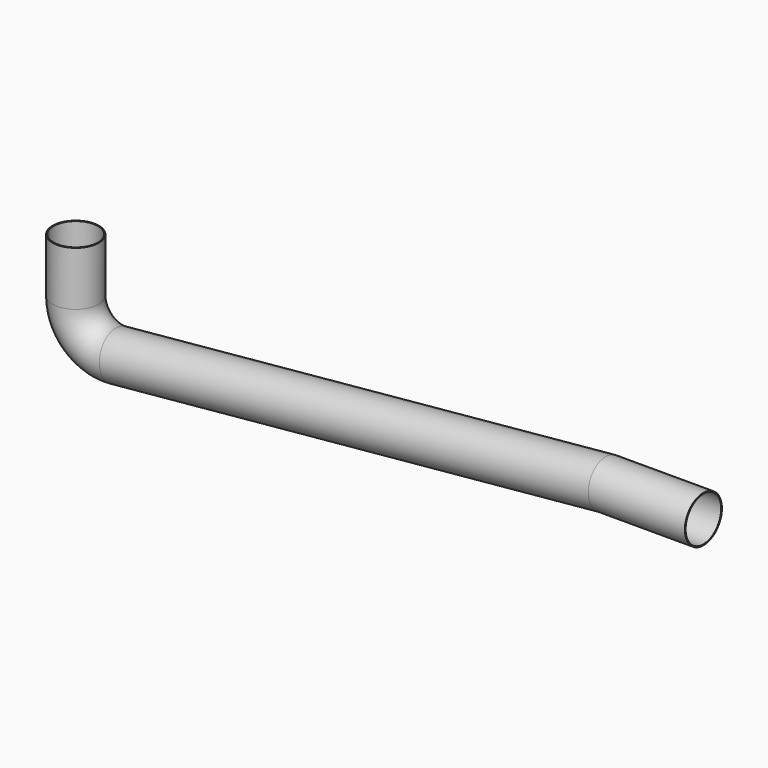
from build123d import *

# Parameters (mm, degrees)
F1_R   = 6
F1_R_2 = 5.75


with BuildPart() as f2:
    # F2: sweep along a path in F0
    with BuildLine(Plane.XZ) as f2_path:
        Line((0, 0), (0, -14.0155194901))
        ThreePointArc((0, -14.0155194901), (3.268073555, -21.410190973), (10.9362332679, -23.9715963916))
        Line((10.9362332679, -23.9715963916), (137.5, -12.07))
        Line((137.5, -12.07), (162.5, -12.07))
    # F1 (on Top) → F2 (sweep)
    with BuildSketch(Plane.XY):
        Circle(F1_R)
        Circle(F1_R_2, mode=Mode.SUBTRACT)
    sweep(path=f2_path.line, transition=Transition.RIGHT)


solid = f2.part
